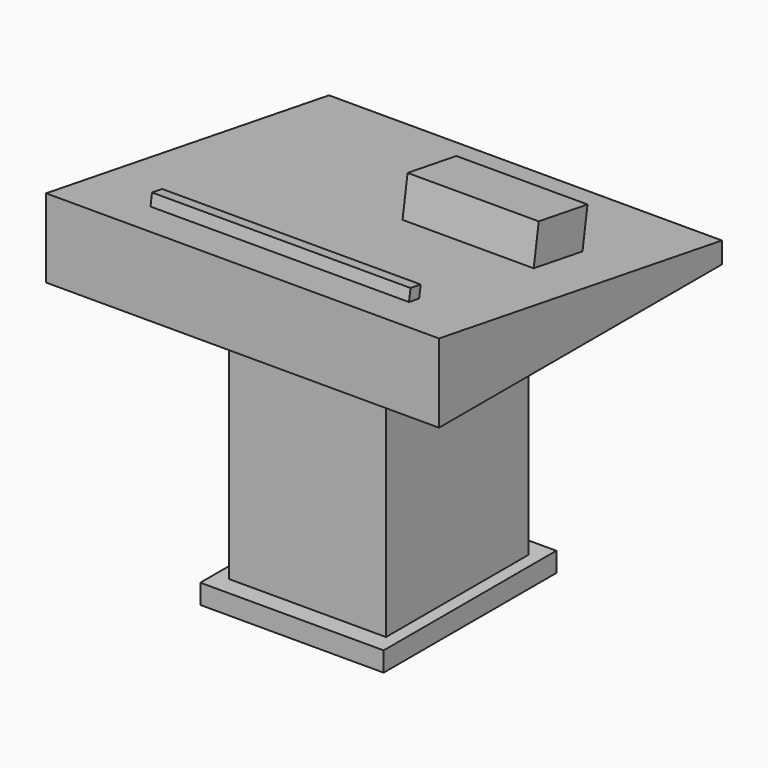
from build123d import *

# Parameters (mm, degrees)
F0_W      = 254
F0_H      = 228.6
F1_DEPTH  = 50.8
F2_W      = 101.6
F2_H      = 115.2657791972
F3_DEPTH  = 165.1
F5_DEPTH  = 279.4
F6_W      = 118.5094341636
F6_H      = 139.5258828998
F7_DEPTH  = 12.7
F8_W      = 167.0939251781
F8_H      = 8.3109661937
F9_DEPTH  = 7.62
F10_W     = 84.7886428237
F10_H     = 39.9433299899
F11_DEPTH = 25.4


with BuildPart() as f1:
    # F0 (on Top) → F1 (new body)
    with BuildSketch(Plane.XY):
        with Locations((-8.4815638786, 0.7548034191)):
            Rectangle(F0_W, F0_H)
    extrude(amount=F1_DEPTH)

    # F2 (on face) → F3 (join)
    with BuildSketch(Plane(origin=(0, 0, 0), x_dir=(1, 0, 0), z_dir=(0, 0, -1))):
        with Locations((-8.3371599585, 3.6606378853)):
            Rectangle(F2_W, F2_H)
    extrude(amount=F3_DEPTH)

    # F4 (on face) → F5 (cut)
    with BuildSketch(Plane.YZ.offset(118.5184361214)):
        Polygon((115.0548034191, 50.8), (-113.5451965809, 50.8), (115.0548034191, 13.6371413246), align=None)
    extrude(amount=-F5_DEPTH, mode=Mode.SUBTRACT)

    # F6 (on face) → F7 (join)
    with BuildSketch(Plane(origin=(0, 0, -165.1), x_dir=(1, 0, 0), z_dir=(0, 0, -1))):
        with Locations((-8.6290575564, 3.6606378853)):
            Rectangle(F6_W, F6_H)
    extrude(amount=F7_DEPTH)

    # F8 (on face) → F9 (join)
    with BuildSketch(Plane(origin=(0, 5.1222588583, 31.5085657224), x_dir=(1, 0, 0), z_dir=(0, 0.1604606782, 0.9870422335))):
        with Locations((-7.2715543211, -87.1428288519)):
            Rectangle(F8_W, F8_H)
    extrude(amount=F9_DEPTH)

    # F10 (on face) → F11 (join)
    with BuildSketch(Plane(origin=(0, 5.1222588583, 31.5085657224), x_dir=(1, 0, 0), z_dir=(0, 0.1604606782, 0.9870422335))):
        with Locations((42.3943214118, 19.971664995)):
            Rectangle(F10_W, F10_H)
    extrude(amount=F11_DEPTH)


solid = f1.part
